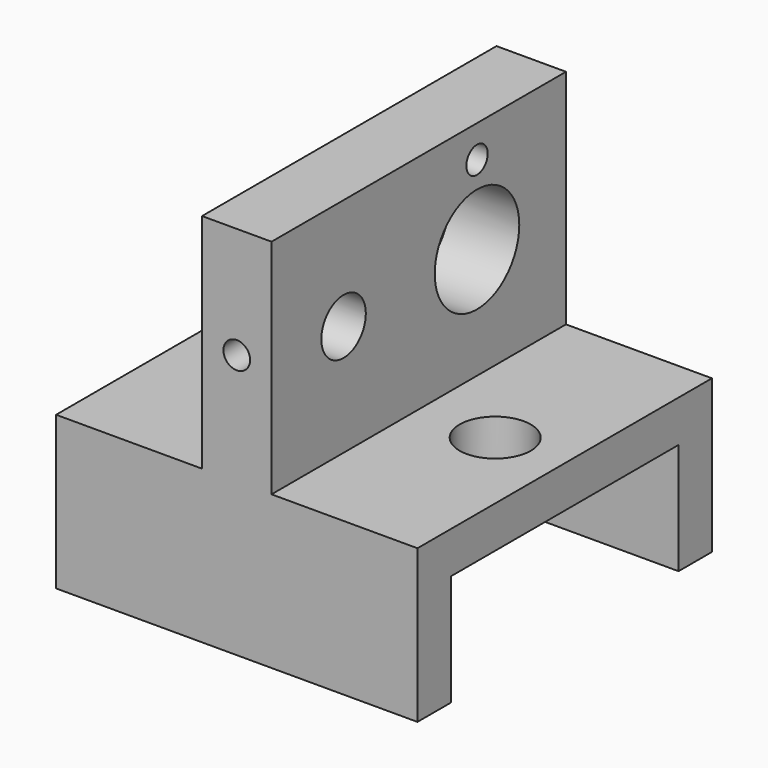
from build123d import *

# Parameters (mm, degrees)
F1_DEPTH  = 20.6375
F2_R      = 4.064
F3_DEPTH  = 4.7625
F4_W      = 7.9375
F4_H      = 42.037
F5_DEPTH  = 25.4
F6_R      = 6.0325
F6_R_2    = 3.175
F7_DEPTH  = 7.9375
F8_R      = 1.524
F9_DEPTH  = 7.9375
F10_R     = 1.524
F11_DEPTH = 7.5026726507


with BuildPart() as f1:
    # F0 (on Right) → F1 (new body, symmetric)
    with BuildSketch(Plane.YZ):
        Polygon((-16.256, 3.556), (-16.256, 16.256), (16.256, 16.256), (16.256, 3.556), (21.0185, 3.556), (21.0185, 21.0185), (-21.0185, 21.0185), (-21.0185, 3.556), align=None)
    extrude(amount=F1_DEPTH, both=True)

    # F2 (on face) → F3 (cut, through all)
    with BuildSketch(Plane.XY.offset(21.0185)):
        with Locations((-12.7, 0)):
            Circle(F2_R)
        with Locations((12.7, 0)):
            Circle(F2_R)
    extrude(amount=-F3_DEPTH, mode=Mode.SUBTRACT)

    # F4 (on face) → F5 (join)
    with BuildSketch(Plane.XY.offset(21.0185)):
        Rectangle(F4_W, F4_H)
    extrude(amount=F5_DEPTH)

    # F6 (on face) → F7 (cut, through all)
    with BuildSketch(Plane.YZ.offset(3.96875)):
        with Locations((8.3185, 33.7185)):
            Circle(F6_R)
        with Locations((-10.7315, 33.7185)):
            Circle(F6_R_2)
    extrude(amount=-F7_DEPTH, mode=Mode.SUBTRACT)

    # F8 (on face) → F9 (cut, through all)
    with BuildSketch(Plane(origin=(-3.96875, 0, 0), x_dir=(0, -1, 0), z_dir=(-1, 0, 0))):
        with Locations((-8.3185, 42.7355)):
            Circle(F8_R)
    extrude(amount=-F9_DEPTH, mode=Mode.SUBTRACT)

    # F10 (on face) → F11 (cut, through all)
    with BuildSketch(Plane.XZ.offset(21.0185)):
        with Locations((0, 33.7185)):
            Circle(F10_R)
    extrude(amount=-F11_DEPTH, mode=Mode.SUBTRACT)


solid = f1.part
